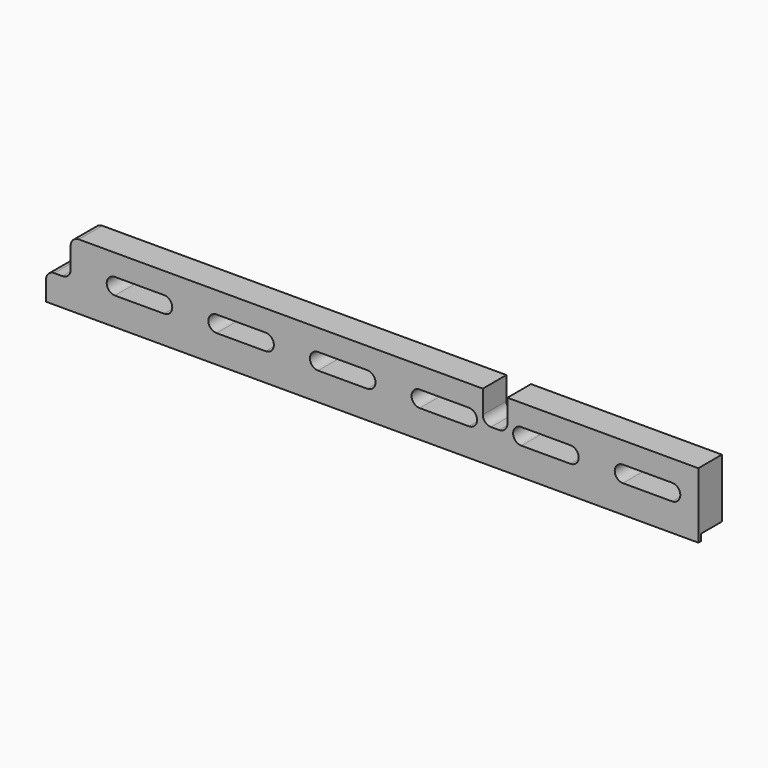
from build123d import *

# Parameters (mm, degrees)
F1_DEPTH = 18
F2_W     = 16
F2_H     = 4
F3_DEPTH = 400
F5_D     = 6
F5_DEPTH = 8
F5_TIP   = 1.8025818571
F7_D     = 6.1
F7_DEPTH = 8
F7_TIP   = 1.832624888


with BuildPart() as f1:
    # F0 (on Front) → F1 (new body)
    with BuildSketch(Plane.XZ):
        with BuildLine():
            ThreePointArc((-397.8999233717, -7.1662084662), (-401.4354572777, -8.6306745602), (-402.8999233717, -12.1662084662))
            Line((-402.8999233717, -12.1662084662), (-402.8999233717, -24.1662084662))
            Line((-402.8999233717, -24.1662084662), (-4.8999233717, -24.1662084662))
            Line((-4.8999233717, -24.1662084662), (-4.8999233717, 15.8337915338))
            Line((-4.8999233717, 15.8337915338), (-121.3999233717, 15.8337915338))
            Line((-121.3999233717, 15.8337915338), (-121.3999233717, 1.8337915338))
            ThreePointArc((-121.3999233717, 1.8337915338), (-122.8643894658, -1.7017423721), (-126.3999233717, -3.1662084662))
            Line((-126.3999233717, -3.1662084662), (-131.3999233717, -3.1662084662))
            ThreePointArc((-131.3999233717, -3.1662084662), (-134.9354572777, -1.7017423721), (-136.3999233717, 1.8337915338))
            Line((-136.3999233717, 1.8337915338), (-136.3999233717, 15.8337915338))
            Line((-136.3999233717, 15.8337915338), (-382.8999233717, 15.8337915338))
            ThreePointArc((-382.8999233717, 15.8337915338), (-386.4354572777, 14.3693254398), (-387.8999233717, 10.8337915338))
            Line((-387.8999233717, 10.8337915338), (-387.8999233717, -2.1662084662))
            ThreePointArc((-387.8999233717, -2.1662084662), (-389.3643894658, -5.7017423721), (-392.8999233717, -7.1662084662))
            Line((-392.8999233717, -7.1662084662), (-397.8999233717, -7.1662084662))
        make_face()
        with BuildLine():
            ThreePointArc((-330.8999233717, 2.8337915338), (-325.8999233717, -2.1662084662), (-330.8999233717, -7.1662084662))
            Line((-330.8999233717, -7.1662084662), (-360.8999233717, -7.1662084662))
            ThreePointArc((-360.8999233717, -7.1662084662), (-365.8999233717, -2.1662084662), (-360.8999233717, 2.8337915338))
            Line((-360.8999233717, 2.8337915338), (-330.8999233717, 2.8337915338))
        make_face(mode=Mode.SUBTRACT)
        with BuildLine():
            ThreePointArc((-268.8999233717, 2.8337915338), (-263.8999233717, -2.1662084662), (-268.8999233717, -7.1662084662))
            Line((-268.8999233717, -7.1662084662), (-298.8999233717, -7.1662084662))
            ThreePointArc((-298.8999233717, -7.1662084662), (-303.8999233717, -2.1662084662), (-298.8999233717, 2.8337915338))
            Line((-298.8999233717, 2.8337915338), (-268.8999233717, 2.8337915338))
        make_face(mode=Mode.SUBTRACT)
        with BuildLine():
            ThreePointArc((-206.8999233717, 2.8337915338), (-201.8999233717, -2.1662084662), (-206.8999233717, -7.1662084662))
            Line((-206.8999233717, -7.1662084662), (-236.8999233717, -7.1662084662))
            ThreePointArc((-236.8999233717, -7.1662084662), (-241.8999233717, -2.1662084662), (-236.8999233717, 2.8337915338))
            Line((-236.8999233717, 2.8337915338), (-206.8999233717, 2.8337915338))
        make_face(mode=Mode.SUBTRACT)
        with BuildLine():
            ThreePointArc((-144.8999233717, 2.8337915338), (-139.8999233717, -2.1662084662), (-144.8999233717, -7.1662084662))
            Line((-144.8999233717, -7.1662084662), (-174.8999233717, -7.1662084662))
            ThreePointArc((-174.8999233717, -7.1662084662), (-179.8999233717, -2.1662084662), (-174.8999233717, 2.8337915338))
            Line((-174.8999233717, 2.8337915338), (-144.8999233717, 2.8337915338))
        make_face(mode=Mode.SUBTRACT)
        with BuildLine():
            ThreePointArc((-82.8999233717, 2.8337915338), (-77.8999233717, -2.1662084662), (-82.8999233717, -7.1662084662))
            Line((-82.8999233717, -7.1662084662), (-112.8999233717, -7.1662084662))
            ThreePointArc((-112.8999233717, -7.1662084662), (-117.8999233717, -2.1662084662), (-112.8999233717, 2.8337915338))
            Line((-112.8999233717, 2.8337915338), (-82.8999233717, 2.8337915338))
        make_face(mode=Mode.SUBTRACT)
        with BuildLine():
            ThreePointArc((-20.8999233717, 2.8337915338), (-15.8999233717, -2.1662084662), (-20.8999233717, -7.1662084662))
            Line((-20.8999233717, -7.1662084662), (-50.8999233717, -7.1662084662))
            ThreePointArc((-50.8999233717, -7.1662084662), (-55.8999233717, -2.1662084662), (-50.8999233717, 2.8337915338))
            Line((-50.8999233717, 2.8337915338), (-20.8999233717, 2.8337915338))
        make_face(mode=Mode.SUBTRACT)
    extrude(amount=F1_DEPTH)

    # F2 (on face) → F3 (cut)
    with BuildSketch(Plane(origin=(-402.8999233717, 0, 0), x_dir=(0, -1, 0), z_dir=(-1, 0, 0))):
        with Locations((8, -22.1662084662)):
            Rectangle(F2_W, F2_H)
    extrude(amount=-F3_DEPTH, mode=Mode.SUBTRACT)

    # F5
    with Locations(Plane(origin=(0, 0, -20.1662084662), x_dir=(1, 0, 0), z_dir=(0, 0, -1))):
        with Locations((-302.8999233717, 11), (-122.8999233717, 11)):
            Hole(F5_D / 2, depth=F5_DEPTH)
            with Locations((0, 0, -(F5_DEPTH + F5_TIP / 2))):  # 118° drill point
                Cone(0, F5_D / 2, F5_TIP, mode=Mode.SUBTRACT)

    # F7
    with Locations(Plane(origin=(0, 0, 0), x_dir=(-1, 0, 0), z_dir=(0, 1, 0))):
        with Locations((392.8999233717, -15.6662084662)):
            Hole(F7_D / 2, depth=F7_DEPTH)
            with Locations((0, 0, -(F7_DEPTH + F7_TIP / 2))):  # 118° drill point
                Cone(0, F7_D / 2, F7_TIP, mode=Mode.SUBTRACT)


solid = f1.part
